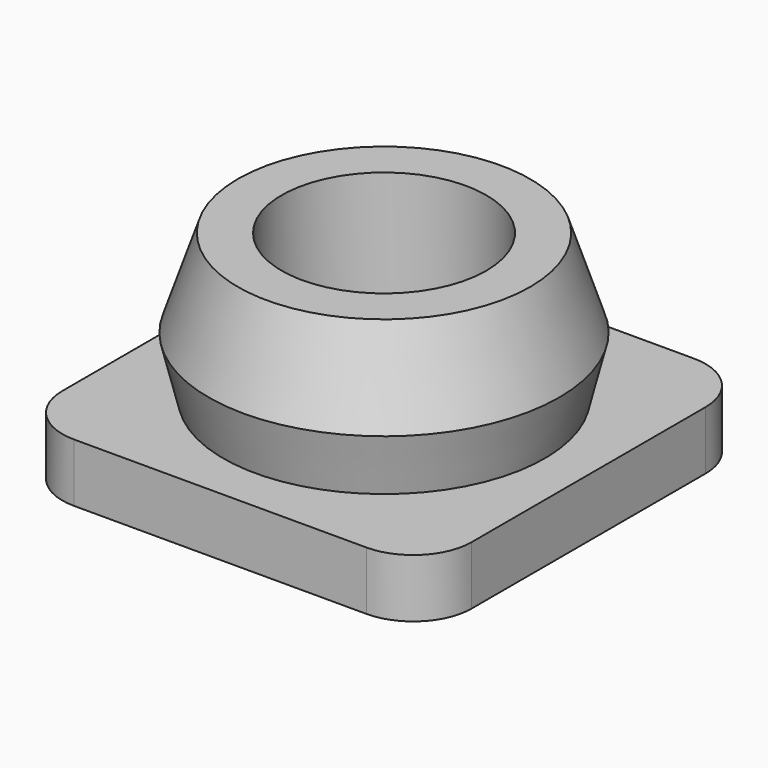
from build123d import *

# Parameters (mm, degrees)
F0_W     = 14
F0_H     = 14
F1_DEPTH = 2
F2_R     = 6
F2_R_2   = 3.5
F3_DEPTH = 5
F4_SIZE2 = 3
F4_SIZE  = 1
F9_DEPTH = 2
F10_R    = 2


with BuildPart() as f1:
    # F0 (on Top) → F1 (new body)
    with BuildSketch(Plane.XY):
        with Locations((-7, 7)):
            Rectangle(F0_W, F0_H)
    extrude(amount=F1_DEPTH)

    # F2 (on face) → F3 (join)
    with BuildSketch(Plane.XY.offset(2)):
        with Locations((-7, 7)):
            Circle(F2_R)
        with Locations((-7, 7)):
            Circle(F2_R_2, mode=Mode.SUBTRACT)
    extrude(amount=F3_DEPTH)

    # F4
    f4_edges = [f1.edges().sort_by_distance(p)[0] for p in [
        (-13, 7, 7),
    ]]
    f4_side = f1.faces().sort_by_distance((-12.830294, 7, 7))[0]
    chamfer(f4_edges, length=F4_SIZE, length2=F4_SIZE2, reference=f4_side)


with BuildPart() as f1_1:
    # F5: moved
    add(f1.part.moved(Location((7, 0, 0))))

    # F6 (on Right) → F7 (revolve, cut)
    with BuildSketch(Plane.YZ):
        Polygon((13, 2), (13, 4), (12.5, 2), align=None)
    revolve(axis=Axis((0, 7, 22.9139531255), (0, 0, 1)), mode=Mode.SUBTRACT)

    # F8 (on face) → F9 (cut, through all)
    with BuildSketch(Plane.XY.offset(2)):
        with BuildLine():
            Line((1, 3.6458980338), (1, 10.3541019662))
            ThreePointArc((1, 10.3541019662), (0, 10.5), (-1, 10.3541019662))
            Line((-1, 10.3541019662), (-1, 3.6458980338))
            ThreePointArc((-1, 3.6458980338), (0, 3.5), (1, 3.6458980338))
        make_face()
    extrude(amount=-F9_DEPTH, mode=Mode.SUBTRACT)

    # F10
    f10_edges = [f1_1.edges().sort_by_distance(p)[0] for p in [
        (7, 0, 1),
        (7, 14, 1),
        (-7, 14, 1),
        (-7, 0, 1),
    ]]
    fillet(f10_edges, radius=F10_R)


solid = f1_1.part
